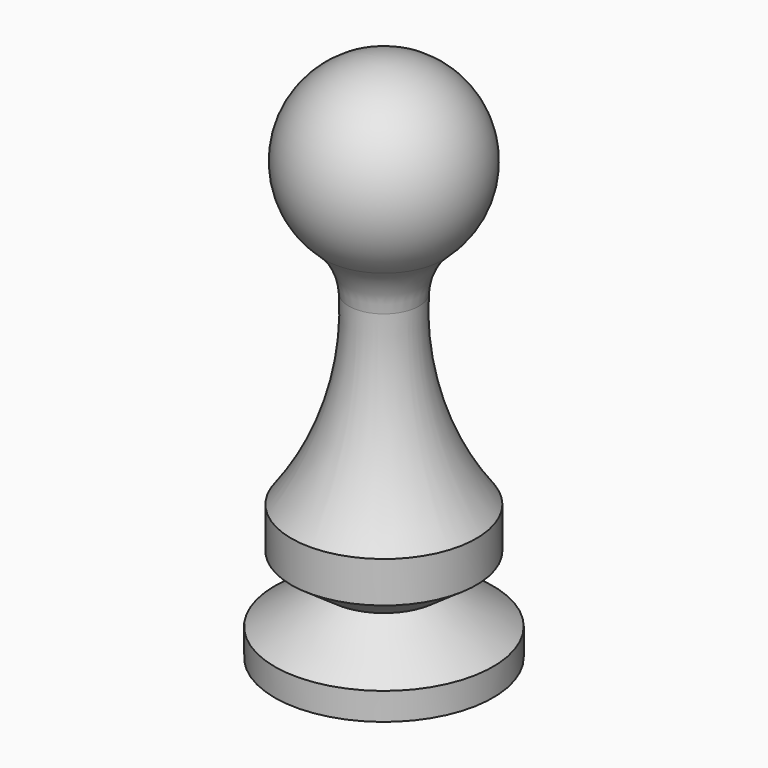
from build123d import *

# Parameters (mm, degrees)
F2_R = 5


with BuildPart() as f1:
    # F0 (on Front) → F1 (revolve)
    with BuildSketch(Plane.XZ):
        with BuildLine():
            Line((-8, 0), (0, 0))
            Line((0, 0), (0, 9.87))
            Line((0, 9.87), (0, 26.07))
            Line((0, 26.07), (0, 32))
            Line((0, 32), (0, 38.59))
            ThreePointArc((0, 38.59), (-6.422881, 33.474686), (-2.874578, 26.07))
            ThreePointArc((-2.874578, 26.07), (-3.123928, 17.559362), (-6.78, 9.87))
            Line((-6.78, 9.87), (-6.78, 6.87))
            Line((-6.78, 6.87), (-4, 4.935))
            Line((-4, 4.935), (-8, 2))
            Line((-8, 2), (-8, 0))
        make_face()
    revolve(axis=Axis((0, 0, 35.295), (0, 0, 1)))

    # F2
    f2_edges = [f1.edges().sort_by_distance(p)[0] for p in [
        (2.874578, 0, 26.07),
        (-6.422881, 0, 33.474686),
    ]]
    fillet(f2_edges, radius=F2_R)


solid = f1.part
